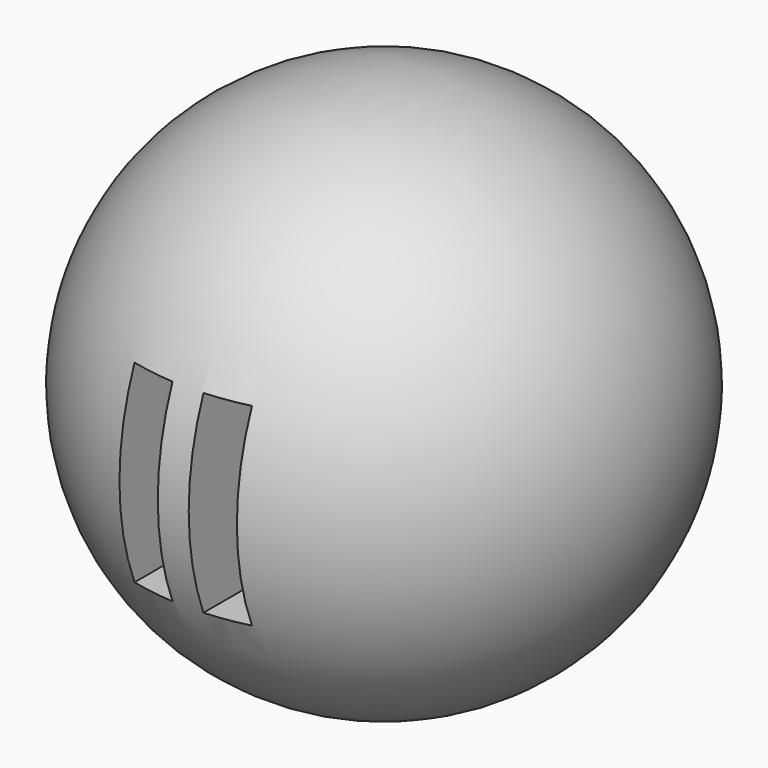
from build123d import *

# Parameters (mm, degrees)
F3_W     = 1.248711
F3_H     = 5.586524
F4_DEPTH = 25.4


with BuildPart() as f1:
    # F0 (on Front) → F1 (revolve)
    with BuildSketch(Plane.XZ):
        with BuildLine():
            Line((-7.62, 0), (7.62, 0))
            ThreePointArc((7.62, 0), (0, 7.62), (-7.62, 0))
        make_face()
    revolve(axis=Axis((0, 0, 0), (1, 0, 0)))

    # F3 (on offset) → F4 (cut)
    with BuildSketch(Plane.XZ.offset(8.89)):
        with Locations((-1.070891, 0)):
            Rectangle(F3_W, F3_H)
        with Locations((1.070891, 0)):
            Rectangle(F3_W, F3_H)
    extrude(amount=-F4_DEPTH, mode=Mode.SUBTRACT)


solid = f1.part
